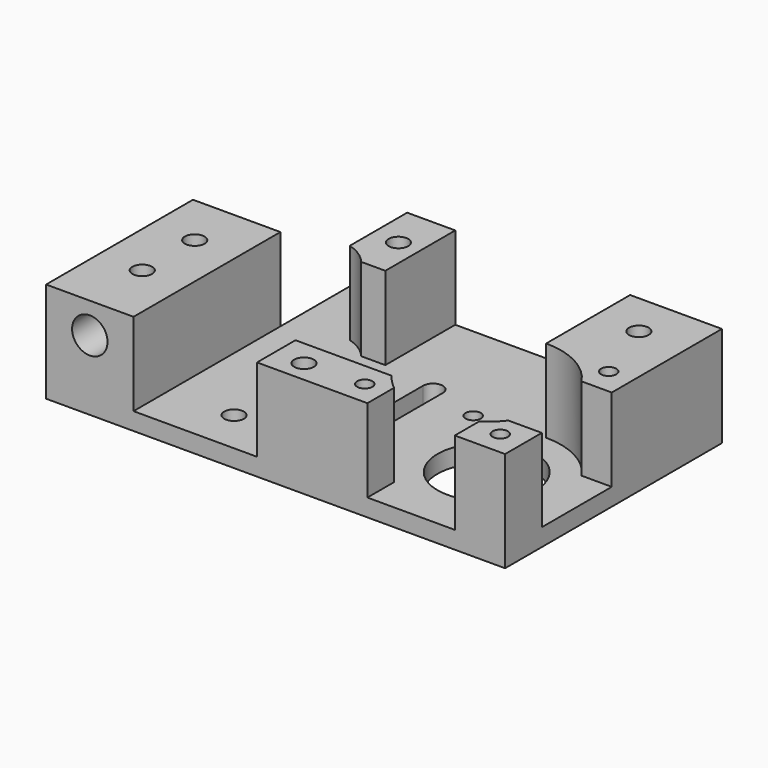
from build123d import *

# Parameters (mm, degrees)
SKETCH_R        = 2.25
SKETCH_R_2      = 11.25
SKETCH_R_3      = 1.75
PAD_DEPTH       = 23
POCKET_DEPTH    = 19
SKETCH003_R     = 4.05
POCKET002_DEPTH = 12


with BuildPart() as part:
    # Sketch → Pad (new body)
    with BuildSketch(Plane.XY):
        Polygon((0, 0), (105, 0), (105, 62), (20, 62), (20, 42), (0, 42), align=None)
        with Locations((35, 10)):
            Circle(SKETCH_R, mode=Mode.SUBTRACT)
        with Locations((30, 35)):
            Circle(SKETCH_R, mode=Mode.SUBTRACT)
        with Locations((84, 21)):
            Circle(SKETCH_R_2, mode=Mode.SUBTRACT)
        with Locations((68.5, 36.5)):
            Circle(SKETCH_R_3, mode=Mode.SUBTRACT)
        with Locations((99.5, 36.5)):
            Circle(SKETCH_R_3, mode=Mode.SUBTRACT)
        with Locations((68.5, 5.5)):
            Circle(SKETCH_R_3, mode=Mode.SUBTRACT)
        with Locations((99.5, 5.5)):
            Circle(SKETCH_R_3, mode=Mode.SUBTRACT)
        with Locations((10, 30)):
            Circle(SKETCH_R, mode=Mode.SUBTRACT)
        with Locations((10, 15)):
            Circle(SKETCH_R, mode=Mode.SUBTRACT)
        with Locations((39, 52)):
            Circle(SKETCH_R, mode=Mode.SUBTRACT)
        with Locations((94, 52)):
            Circle(SKETCH_R, mode=Mode.SUBTRACT)
        with Locations((55, 5)):
            Circle(SKETCH_R, mode=Mode.SUBTRACT)
        with BuildLine():
            Line((58.75, 25), (58.75, 40))
            ThreePointArc((58.75, 40), (56.5, 42.25), (54.25, 40))
            Line((54.25, 25), (54.25, 40))
            ThreePointArc((54.25, 25), (56.5, 22.75), (58.75, 25))
        make_face(mode=Mode.SUBTRACT)
    extrude(amount=PAD_DEPTH)

    # Sketch001 → Pocket (cut)
    with BuildSketch(Plane.XY.offset(23)):
        with BuildLine():
            ThreePointArc((38.485281, 42), (36.015595, 44.209377), (32.999996, 45.583006))
            Line((32.999996, 67), (32.999996, 45.583006))
            Line((20, 67), (32.999996, 67))
            Line((20, -1), (20, 67))
            Line((20, -1), (48.252269, -1))
            Line((48.252269, 11), (48.252269, -1))
            Line((48.252269, 11), (70.252269, 11))
            ThreePointArc((70.252269, 11), (71.759618, 9.202833), (73.499996, 7.630258))
            Line((73.499996, 7.630258), (73.499996, -1))
            Line((73.499996, -1), (93.499996, -1))
            Line((93.499996, -1), (93.499996, 6.902128))
            ThreePointArc((93.499996, 6.902128), (95.574295, 8.548671), (97.367695, 10.497399))
            Line((105.499996, 10.497399), (97.367695, 10.497399))
            Line((105.499996, 30.497399), (105.499996, 10.497399))
            Line((98.099621, 30.497399), (105.499996, 30.497399))
            ThreePointArc((98.099621, 30.497399), (91.98574, 36.007594), (83.999996, 38))
            Line((83.999996, 38), (83.999996, 67))
            Line((83.999996, 67), (43.999996, 67))
            Line((43.999996, 67), (43.999996, 42))
            Line((38.485281, 42), (43.999996, 42))
        make_face()
    extrude(amount=-POCKET_DEPTH, mode=Mode.SUBTRACT)

    # Sketch003 → Pocket002 (cut)
    with BuildSketch(Plane.XZ):
        with Locations((10, 16)):
            Circle(SKETCH003_R)
    extrude(amount=-POCKET002_DEPTH, mode=Mode.SUBTRACT)


solid = part.part
